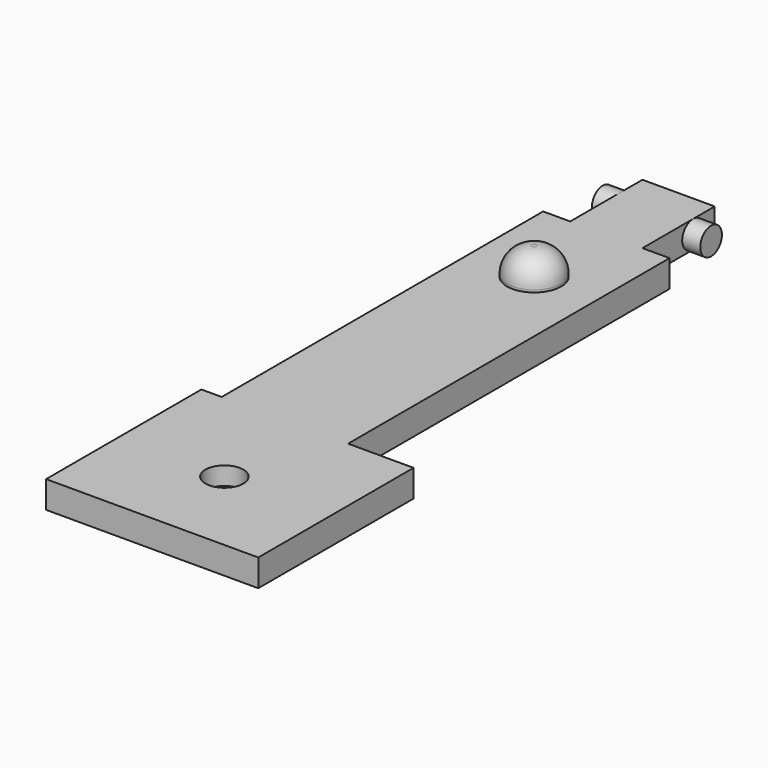
from build123d import *

# Parameters (mm, degrees)
PAD_DEPTH    = 3
SKETCH001_R  = 1.5
PAD001_DEPTH = 6
SKETCH002_R  = 2.1
POCKET_DEPTH = 2
SKETCH003_R  = 3
PAD002_DEPTH = 3
FILLET_R     = 2.75


with BuildPart() as part:
    # Sketch → Pad (new body)
    with BuildSketch(Plane.XY):
        Polygon((-9.25, -33), (14.25, -33), (14.25, -11.5), (7, -11.5), (7, 33), (4, 33), (4, 43), (-4, 43), (-4, 33), (-7, 33), (-7, -11.5), (-9.25, -11.5), align=None)
    extrude(amount=PAD_DEPTH)

    # Sketch001 → Pad001 (join, symmetric)
    with BuildSketch(Plane.YZ):
        with Locations((40, 1.5)):
            Circle(SKETCH001_R)
    extrude(amount=PAD001_DEPTH, both=True)

    # Sketch002 (on Face5 of Pad001) → Pocket (cut)
    with BuildSketch(Plane.XY.offset(3)):
        with Locations((2.5, -23)):
            Circle(SKETCH002_R)
    extrude(amount=-POCKET_DEPTH, mode=Mode.SUBTRACT)

    # Sketch003 (on Face5 of Pocket) → Pad002 (join)
    with BuildSketch(Plane.XY.offset(3)):
        with Locations((0, 23)):
            Circle(SKETCH003_R)
    extrude(amount=PAD002_DEPTH)

    # Fillet
    fillet_edges = [part.edges().sort_by_distance(p)[0] for p in [
        (-3, 23, 6),
    ]]
    fillet(fillet_edges, radius=FILLET_R)


solid = part.part
